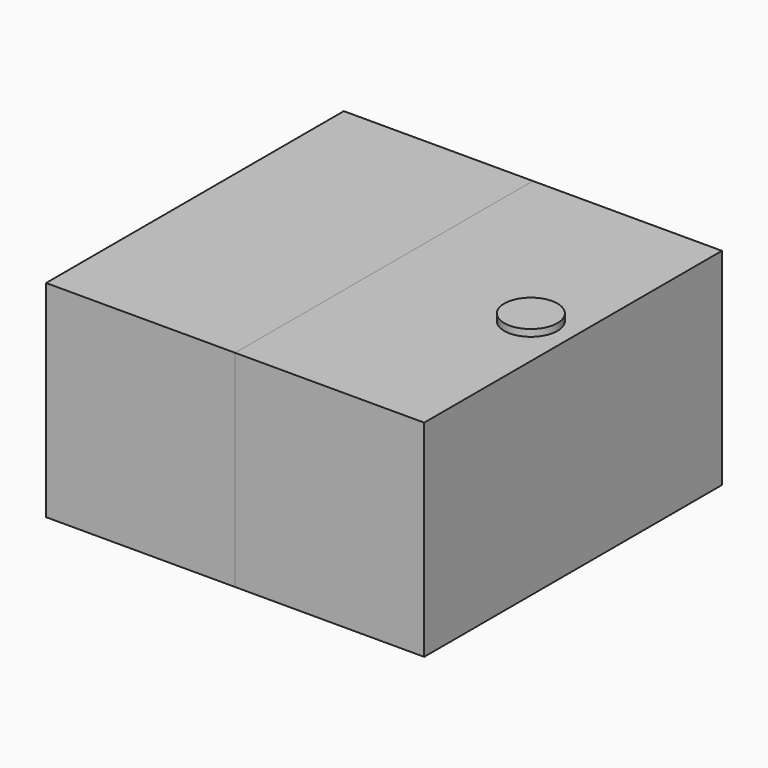
from build123d import *

# Parameters (mm, degrees)
F0_W     = 69.863096
F0_H     = 137.526572
F2_DEPTH = 76.2
F1_R     = 9.824635
F3_DEPTH = 78.74
F4_DEPTH = 76.2


with BuildPart() as f2:
    # F0 (on Top) → F2 (new body)
    with BuildSketch(Plane.XY):
        with Locations((-34.931548, 0)):
            Rectangle(F0_W, F0_H)
    extrude(amount=F2_DEPTH)


with BuildPart() as f3:
    # F1 (on Top) → F3 (new body)
    with BuildSketch(Plane.XY):
        with Locations((54.264009, 0)):
            Circle(F1_R)
    extrude(amount=F3_DEPTH)


with BuildPart() as f4:
    # F0 (on Top) → F4 (new body)
    with BuildSketch(Plane.XY):
        with Locations((34.931548, 0)):
            Rectangle(F0_W, F0_H)
    extrude(amount=F4_DEPTH)


solid = Compound([f2.part, f3.part, f4.part])
